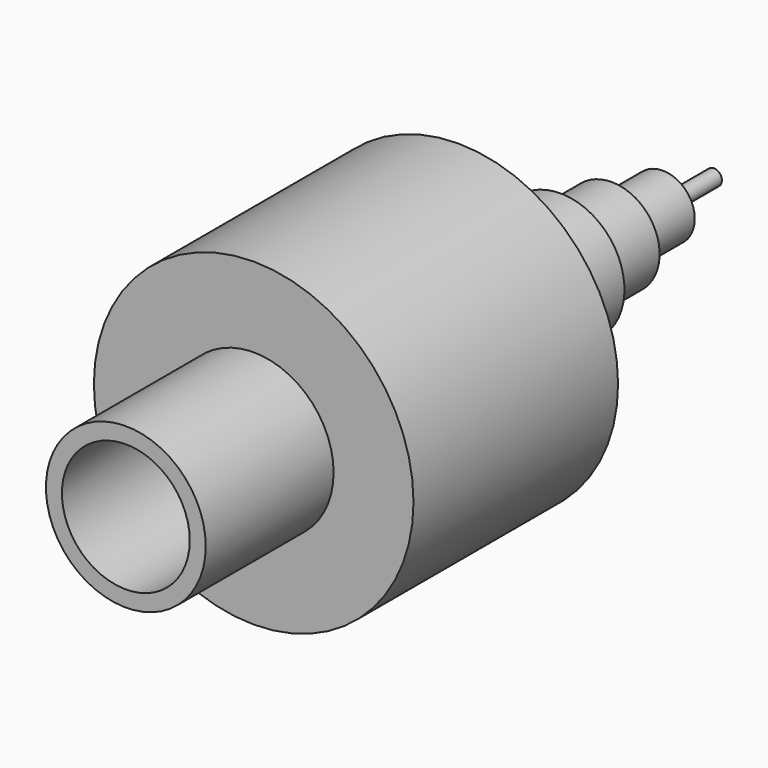
from build123d import *

# Parameters (mm, degrees)
F0_R      = 50
F1_DEPTH  = 80
F2_R      = 25
F3_DEPTH  = 50
F4_R      = 20
F5_DEPTH  = 40
F6_R      = 25
F7_DEPTH  = 20
F8_R      = 20
F9_DEPTH  = 20
F10_R     = 15
F11_DEPTH = 20
F12_R     = 10
F13_DEPTH = 20
F14_R     = 2.5
F15_DEPTH = 20


with BuildPart() as f1:
    # F0 (on Front) → F1 (new body)
    with BuildSketch(Plane.XZ):
        Circle(F0_R)
    extrude(amount=F1_DEPTH)

    # F2 (on face) → F3 (join)
    with BuildSketch(Plane.XZ.offset(80)):
        Circle(F2_R)
    extrude(amount=F3_DEPTH)

    # F4 (on face) → F5 (cut)
    with BuildSketch(Plane.XZ.offset(130)):
        Circle(F4_R)
    extrude(amount=-F5_DEPTH, mode=Mode.SUBTRACT)

    # F6 (on face) → F7 (join)
    with BuildSketch(Plane(origin=(0, 0, 0), x_dir=(-1, 0, 0), z_dir=(0, 1, 0))):
        Circle(F6_R)
    extrude(amount=F7_DEPTH)

    # F8 (on face) → F9 (join)
    with BuildSketch(Plane(origin=(0, 20, 0), x_dir=(-1, 0, 0), z_dir=(0, 1, 0))):
        Circle(F8_R)
    extrude(amount=F9_DEPTH)

    # F10 (on face) → F11 (join)
    with BuildSketch(Plane(origin=(0, 40, 0), x_dir=(-1, 0, 0), z_dir=(0, 1, 0))):
        Circle(F10_R)
    extrude(amount=F11_DEPTH)

    # F12 (on face) → F13 (join)
    with BuildSketch(Plane(origin=(0, 60, 0), x_dir=(-1, 0, 0), z_dir=(0, 1, 0))):
        Circle(F12_R)
    extrude(amount=F13_DEPTH)

    # F14 (on face) → F15 (join)
    with BuildSketch(Plane(origin=(0, 80, 0), x_dir=(-1, 0, 0), z_dir=(0, 1, 0))):
        Circle(F14_R)
    extrude(amount=F15_DEPTH)


solid = f1.part
